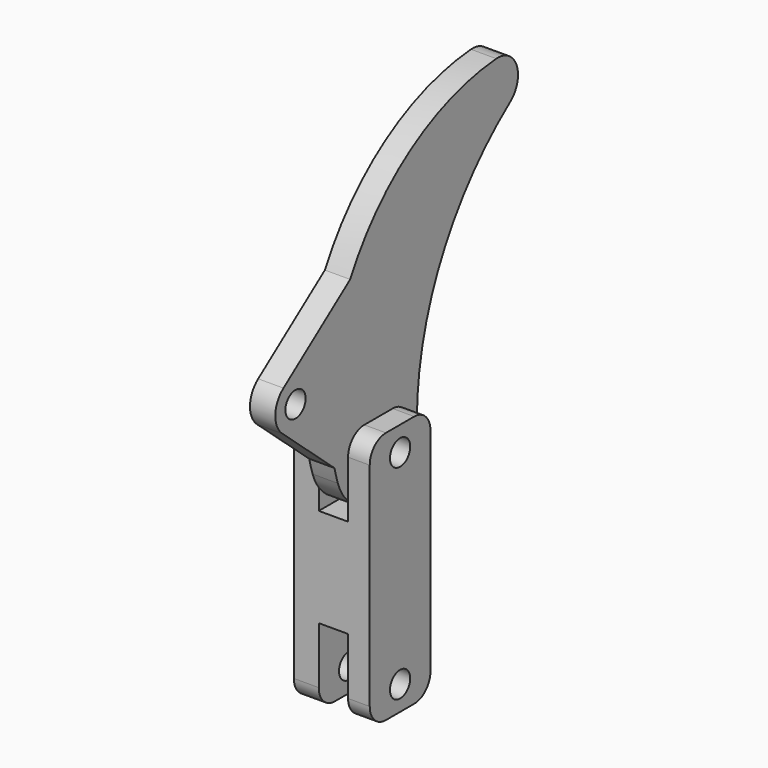
from build123d import *

# Parameters (mm, degrees)
F0_R     = 3.175
F1_DEPTH = 6.35
F2_R     = 3.175
F3_DEPTH = 6.35
F5_DEPTH = 9.525
F6_R     = 3.175
F7_DEPTH = 25.4
F8_R     = 5.08


with BuildPart() as f1:
    # F0 (on Right) → F1 (new body)
    with BuildSketch(Plane.YZ):
        with BuildLine():
            ThreePointArc((37.6131914897, 69.8313124606), (-5.0468372816, 45.0131316201), (-12.1077068408, -3.8332016718))
            ThreePointArc((-12.1077068408, -3.8332016718), (1.9393456527, -12.5510532801), (12.7, 0))
            ThreePointArc((12.7, 0), (20.4094543772, 32.6577728114), (41.91, 58.42))
            ThreePointArc((41.91, 58.42), (44.0426772955, 65.7376520199), (37.6131914897, 69.8313124606))
        make_face()
        Circle(F0_R, mode=Mode.SUBTRACT)
    extrude(amount=F1_DEPTH)

    # F2 (on face) → F3 (join)
    with BuildSketch(Plane.YZ.offset(6.35)):
        with BuildLine():
            Line((-8.242219049, 39.6678149022), (-29.1806365937, 24.1518905267))
            ThreePointArc((-29.1806365937, 24.1518905267), (-31.7450439502, 19.3008331522), (-29.5715862194, 14.2624778419))
            Line((-29.5715862194, 14.2624778419), (-13.1673026326, -0.0313219759))
            ThreePointArc((-13.1673026326, -0.0313219759), (-14.3212137772, 20.2669044036), (-8.242219049, 39.6678149022))
        make_face()
        with Locations((-25.4, 19.05)):
            Circle(F2_R, mode=Mode.SUBTRACT)
    extrude(amount=-F3_DEPTH)


with BuildPart() as f5:
    # F4 (on Front) → F5 (new body, symmetric)
    with BuildSketch(Plane.XZ):
        Polygon((-0.508, 6.1343043919), (-6.7594562411, 6.1343043919), (-6.7594562411, -25.6156956081), (12.2905437589, -25.6156956081), (12.2905437589, 6.1343043919), (6.858, 6.1343043919), (6.858, -13.208), (-0.508, -13.208), align=None)
    extrude(amount=F5_DEPTH, both=True)

    # F6 (on face) → F7 (cut)
    with BuildSketch(Plane(origin=(-6.7594562411, 0, 0), x_dir=(0, -1, 0), z_dir=(-1, 0, 0))):
        Circle(F6_R)
    extrude(amount=-F7_DEPTH, mode=Mode.SUBTRACT)

    # F8
    f8_edges = [f5.edges().sort_by_distance(p)[0] for p in [
        (-3.633728, -9.525, 6.134304),
        (-3.633728, 9.525, 6.134304),
        (9.574272, -9.525, 6.134304),
        (9.574272, 9.525, 6.134304),
    ]]
    fillet(f8_edges, radius=F8_R)

    # F9: F5 across face


with BuildPart() as f5_1:
    add(f5.part)
    add(f5.part.mirror(Plane(origin=(2.7655437589, 0, -25.6156956081), x_dir=(1, 0, 0), z_dir=(0, 0, -1))))


solid = Compound([f1.part, f5_1.part])
